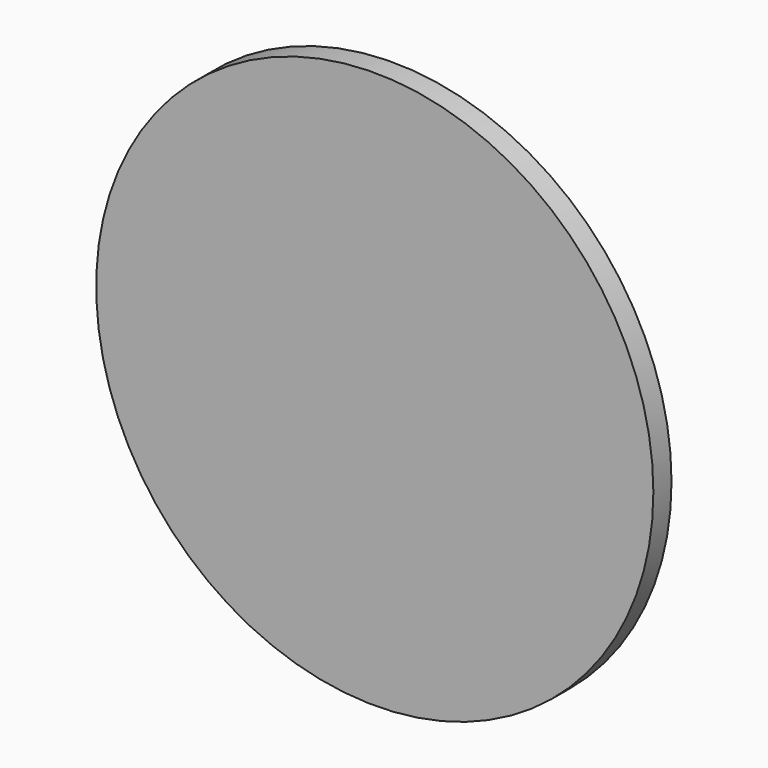
from build123d import *

# Parameters (mm, degrees)
F0_R     = 15.2654
F1_DEPTH = 1.2446
F2_R     = 13.1572
F3_DEPTH = 1.397


with BuildPart() as f1:
    # F0 (on Front) → F1 (new body)
    with BuildSketch(Plane.XZ):
        Circle(F0_R)
    extrude(amount=-F1_DEPTH)

    # F2 (on face) → F3 (join)
    with BuildSketch(Plane(origin=(0, 1.2446, 0), x_dir=(-1, 0, 0), z_dir=(0, 1, 0))):
        Circle(F2_R)
    extrude(amount=F3_DEPTH)


solid = f1.part
